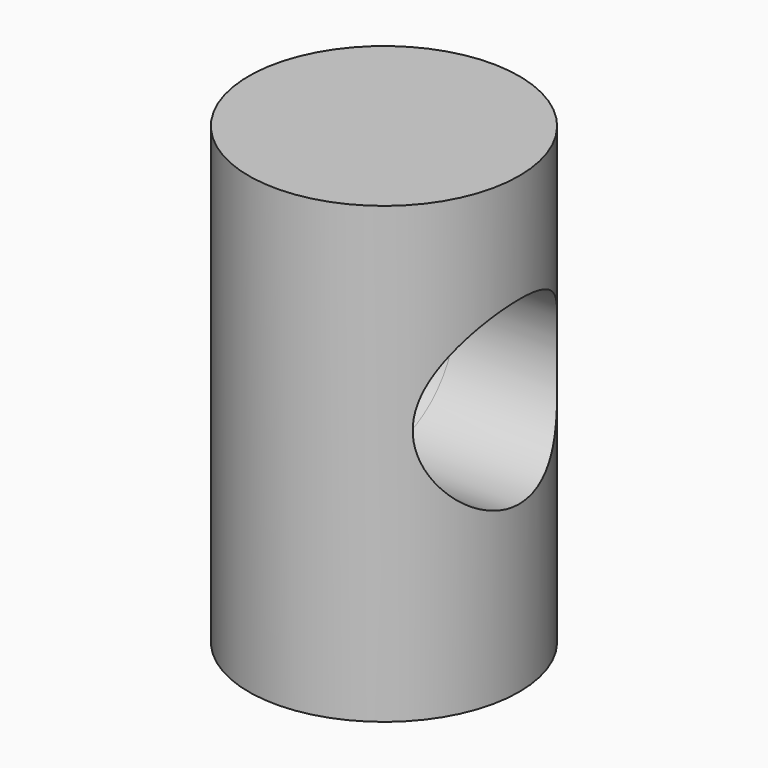
from build123d import *

# Parameters (mm, degrees)
F0_R          = 4.7625
F1_DEPTH      = 16
F2_R          = 3.175
F3_DEPTH      = 25.4
F3_DEPTH_BACK = 25.4


with BuildPart() as f1:
    # F0 (on Top) → F1 (new body)
    with BuildSketch(Plane.XY):
        Circle(F0_R)
    extrude(amount=F1_DEPTH)

    # F2 (on Right) → F3 (cut, two sides)
    with BuildSketch(Plane.YZ) as f3_sk:
        with Locations((0, 9)):
            Circle(F2_R)
    extrude(amount=F3_DEPTH, mode=Mode.SUBTRACT)
    extrude(f3_sk.sketch, amount=-F3_DEPTH_BACK, mode=Mode.SUBTRACT)


solid = f1.part
